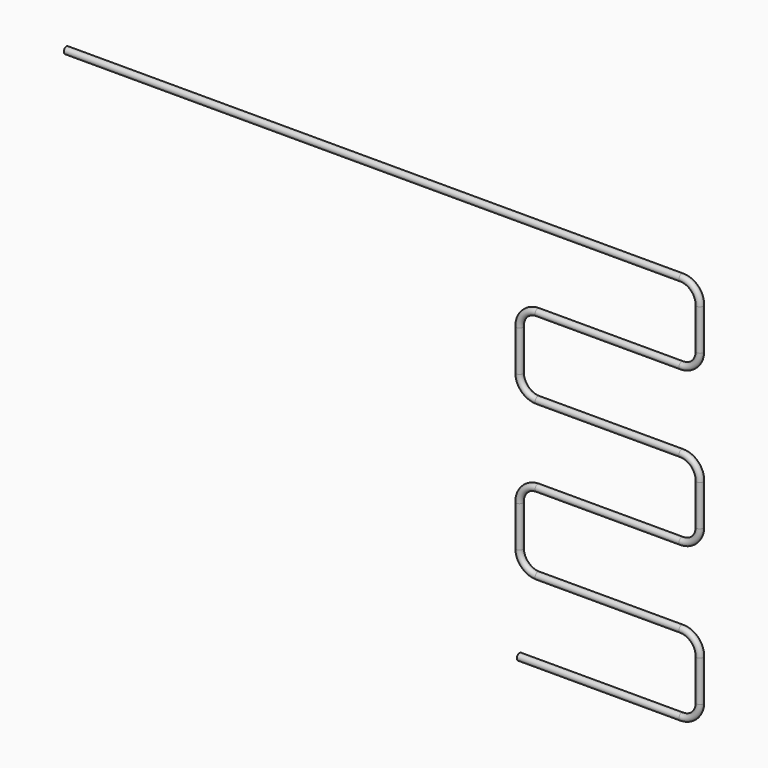
from build123d import *

# Parameters (mm, degrees)
F1_R = 3.675


with BuildPart() as f2:
    # F2: sweep along a path in F0
    with BuildLine(Plane.XZ) as f2_path:
        Line((0, 0), (674, 0))
        ThreePointArc((674, 0), (688.142136, -5.857864), (694, -20))
        Line((694, -20), (694, -64.7))
        ThreePointArc((694, -64.7), (688.142136, -78.842136), (674, -84.7))
        Line((674, -84.7), (516.4, -84.7))
        ThreePointArc((516.4, -84.7), (502.257864, -90.557864), (496.4, -104.7))
        Line((496.4, -104.7), (496.4, -149.4))
        ThreePointArc((496.4, -149.4), (502.257864, -163.542136), (516.4, -169.4))
        Line((516.4, -169.4), (674, -169.4))
        ThreePointArc((674, -169.4), (688.142136, -175.257864), (694, -189.4))
        Line((694, -189.4), (694, -234.1))
        ThreePointArc((694, -234.1), (688.142136, -248.242136), (674, -254.1))
        Line((674, -254.1), (516.4, -254.1))
        ThreePointArc((516.4, -254.1), (502.257864, -259.957864), (496.4, -274.1))
        Line((496.4, -274.1), (496.4, -318.8))
        ThreePointArc((496.4, -318.8), (502.257864, -332.942136), (516.4, -338.8))
        Line((516.4, -338.8), (674, -338.8))
        ThreePointArc((674, -338.8), (688.142136, -344.657864), (694, -358.8))
        Line((694, -358.8), (694, -403.5))
        ThreePointArc((694, -403.5), (688.142136, -417.642136), (674, -423.5))
        Line((674, -423.5), (496.4, -423.5))
    # F1 (on Right) → F2 (sweep)
    with BuildSketch(Plane.YZ):
        Circle(F1_R)
    sweep(path=f2_path.line)


solid = f2.part
